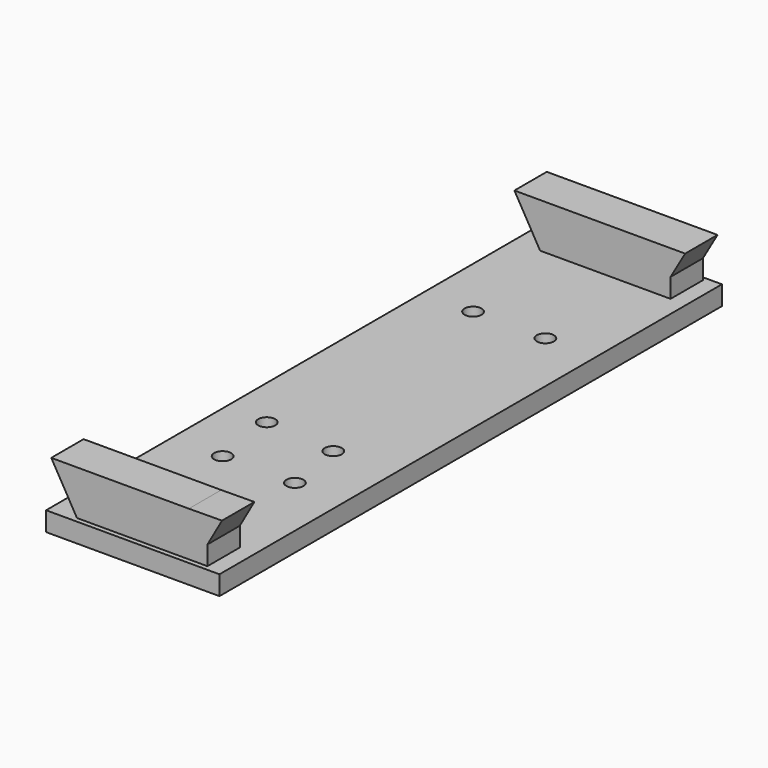
from build123d import *

# Parameters (mm, degrees)
SKETCH_W      = 45.72
SKETCH_H      = 165.608
PAD_DEPTH     = 5.08
SKETCH005_R   = 2.25
HOLE_DEPTH    = 24.9936
SKETCH010_R   = 2.25
HOLE001_DEPTH = 24.9936
SKETCH006_W   = 32.385
SKETCH006_H   = 16.8402
PAD005_DEPTH  = 5.334
PAD006_DEPTH  = 5.334
SKETCH008_W   = 32.385
SKETCH008_H   = 16.8402
PAD007_DEPTH  = 10.668
PAD008_DEPTH  = 10.668


with BuildPart() as body:
    # Sketch → Pad (new body)
    with BuildSketch(Plane.XY):
        with Locations((0, -76.454)):
            Rectangle(SKETCH_W, SKETCH_H)
    extrude(amount=PAD_DEPTH)

    # Sketch005 → Hole (cut)
    with BuildSketch(Plane(origin=(0, 0, 0), x_dir=(1, 0, 0), z_dir=(0, 0, -1))):
        with Locations((-9.525, 117.729)):
            Circle(SKETCH005_R)
        with Locations((-9.525, 35.179)):
            Circle(SKETCH005_R)
        with Locations((9.525, 117.729)):
            Circle(SKETCH005_R)
        with Locations((9.525, 35.179)):
            Circle(SKETCH005_R)
    extrude(amount=-HOLE_DEPTH, mode=Mode.SUBTRACT)

    # Sketch010 (on Face4 of Hole) → Hole001 (cut)
    with BuildSketch(Plane(origin=(0, 0, 0), x_dir=(1, 0, 0), z_dir=(0, 0, -1))):
        with Locations((-11.888124, 100.23912)):
            Circle(SKETCH010_R)
        with Locations((6.858004, 101.738808)):
            Circle(SKETCH010_R)
    extrude(amount=-HOLE001_DEPTH, mode=Mode.SUBTRACT)


with BuildPart() as pad006:
    # Sketch006 → Pad005 (new body, symmetric)
    with BuildSketch(Plane.XZ):
        with Locations((2.4765, 8.4201)):
            Rectangle(SKETCH006_W, SKETCH006_H)
    extrude(amount=PAD005_DEPTH, both=True)

    # Sketch007 → Pad006 (new body, symmetric)
    with BuildSketch(Plane.XZ):
        Polygon((-13.716, 1.6002), (-13.716, 16.8402), (-22.514818, 16.8402), align=None)
        Polygon((13.716, 1.6002), (22.514818, 16.8402), (13.716, 16.8402), align=None)
    extrude(amount=PAD006_DEPTH, both=True)


with BuildPart() as pad008:
    # Sketch008 → Pad007 (new body)
    with BuildSketch(Plane.XZ.offset(147.32)):
        with Locations((2.4765, 8.4201)):
            Rectangle(SKETCH008_W, SKETCH008_H)
    extrude(amount=PAD007_DEPTH)

    # Sketch009 → Pad008 (new body)
    with BuildSketch(Plane.XZ.offset(147.32)):
        Polygon((-13.716, 1.6002), (-13.716, 16.8402), (-22.514818, 16.8402), align=None)
        Polygon((13.838348, 1.6002), (22.514164, 16.910556), (13.715632, 16.839706), align=None)
    extrude(amount=PAD008_DEPTH)


solid = Compound([body.part, pad006.part, pad008.part])
